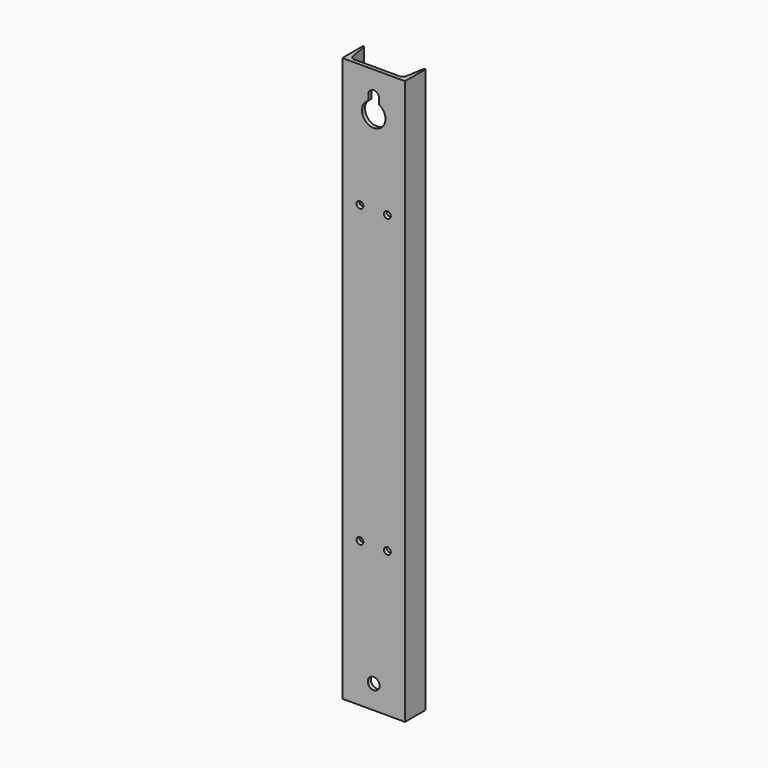
from build123d import *

# Parameters (mm, degrees)
F1_DEPTH = 914.4
F2_R     = 9.525
F3_DEPTH = 41.8348
F5_DEPTH = 41.8348
F6_R     = 5.55625
F7_DEPTH = 41.8348


with BuildPart() as f1:
    # F0 (on Top) → F1 (new body)
    with BuildSketch(Plane.XY):
        with BuildLine():
            Line((-50.8, 41.8338), (-50.8, 0))
            Line((-50.8, 0), (50.8, 0))
            Line((50.8, 0), (50.8, 41.8338))
            ThreePointArc((50.8, 41.8338), (48.9940285402, 41.1716778311), (48.0440153768, 39.4991307706))
            Line((48.0440153768, 39.4991307706), (43.4969259811, 12.216594402))
            ThreePointArc((43.4969259811, 12.216594402), (41.078710656, 7.9592018846), (36.4816923948, 6.2738))
            Line((36.4816923948, 6.2738), (-36.4816923948, 6.2738))
            ThreePointArc((-36.4816923948, 6.2738), (-41.078710656, 7.9592018846), (-43.4969259811, 12.216594402))
            Line((-43.4969259811, 12.216594402), (-48.0440153768, 39.4991307706))
            ThreePointArc((-48.0440153768, 39.4991307706), (-48.9940285402, 41.1716778311), (-50.8, 41.8338))
        make_face()
    extrude(amount=F1_DEPTH)

    # F2 (on face) → F3 (cut, through all)
    with BuildSketch(Plane.XZ):
        with Locations((0, 38.1)):
            Circle(F2_R)
    extrude(amount=-F3_DEPTH, mode=Mode.SUBTRACT)

    # F4 (on face) → F5 (cut, through all)
    with BuildSketch(Plane.XZ):
        with BuildLine():
            Line((8.73125, 867.0375161499), (8.73125, 876.3))
            ThreePointArc((8.73125, 876.3), (0, 885.03125), (-8.73125, 876.3))
            Line((-8.73125, 876.3), (-8.73125, 867.0375161499))
            ThreePointArc((-8.73125, 867.0375161499), (0, 831.05625), (8.73125, 867.0375161499))
        make_face()
    extrude(amount=-F5_DEPTH, mode=Mode.SUBTRACT)

    # F6 (on face) → F7 (cut, through all)
    with BuildSketch(Plane.XZ):
        with Locations((-22.225, 714.0829)):
            Circle(F6_R)
        with Locations((22.225, 714.0829)):
            Circle(F6_R)
        with Locations((-22.225, 234.6579)):
            Circle(F6_R)
        with Locations((22.225, 234.6579)):
            Circle(F6_R)
    extrude(amount=-F7_DEPTH, mode=Mode.SUBTRACT)


solid = f1.part
